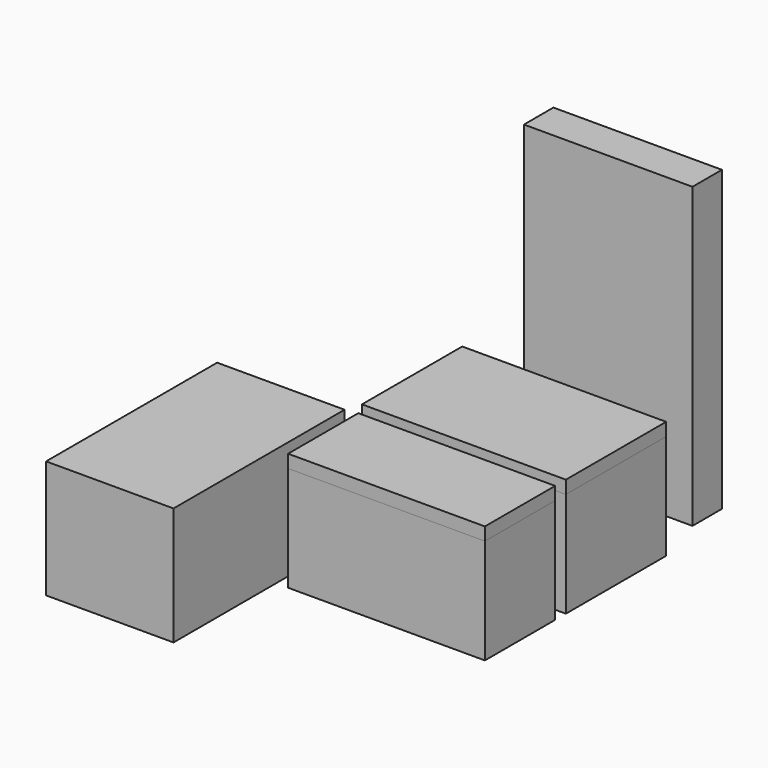
from build123d import *

# Parameters (mm, degrees)
F0_W     = 43.891202
F0_H     = 26.974801
F0_W_2   = 42.367201
F0_H_2   = 18.8976
F1_DEPTH = 25.4
F2_DEPTH = 22.606
F3_W     = 36.271201
F3_H     = 7.924799
F4_DEPTH = 64.262
F5_W     = 27.432
F5_H     = 46.0248
F6_DEPTH = 25.4


with BuildPart() as f1:
    # F0 (on Top) → F1 (new body)
    with BuildSketch(Plane.XY):
        with Locations((-1.2192, 13.4874)):
            Rectangle(F0_W, F0_H)
        with Locations((-0.457199, -12.3444)):
            Rectangle(F0_W_2, F0_H_2)
    extrude(amount=F1_DEPTH)


with BuildPart() as f2:
    # F0 (on Top) → F2 (new body)
    with BuildSketch(Plane.XY):
        with Locations((-1.2192, 13.4874)):
            Rectangle(F0_W, F0_H)
        with Locations((-0.457199, -12.3444)):
            Rectangle(F0_W_2, F0_H_2)
    extrude(amount=F2_DEPTH)


with BuildPart() as f4:
    # F3 (on Top) → F4 (new body)
    with BuildSketch(Plane.XY):
        with Locations((-0.762002, 42.214798)):
            Rectangle(F3_W, F3_H)
    extrude(amount=F4_DEPTH)


with BuildPart() as f6:
    # F5 (on Top) → F6 (new body)
    with BuildSketch(Plane.XY):
        with Locations((-37.9476, -26.365202)):
            Rectangle(F5_W, F5_H)
    extrude(amount=F6_DEPTH)


solid = Compound([f1.part, f2.part, f4.part, f6.part])
